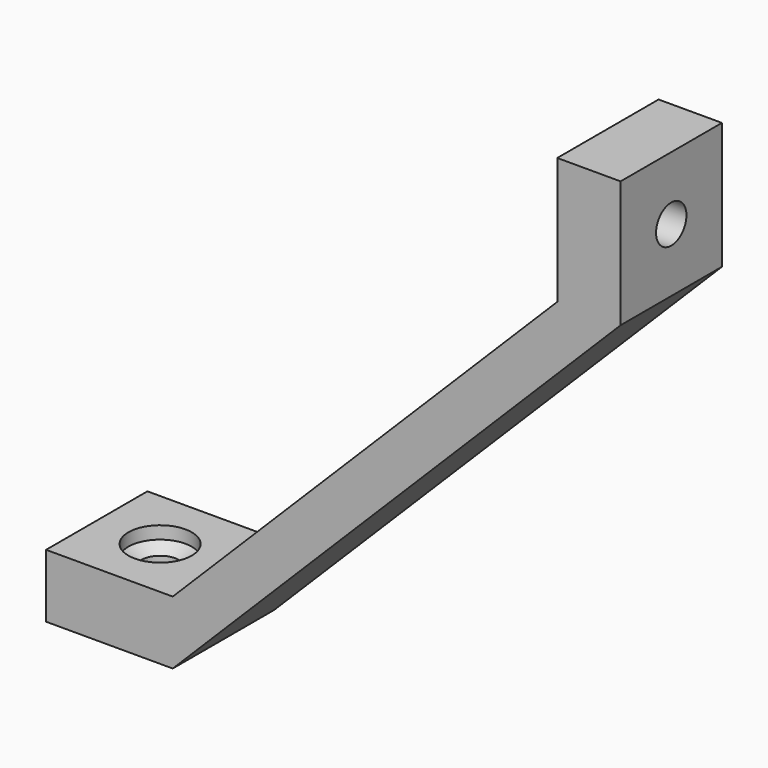
from build123d import *

# Parameters (mm, degrees)
F1_DEPTH = 10
F3_D     = 5
F3_DEPTH = 1
F3_TIP   = 1.5021515476
F5_D     = 5
F5_DEPTH = 1
F5_TIP   = 1.5021515476
F7_D     = 3
F9_D     = 3


with BuildPart() as f1:
    # F0 (on Front) → F1 (new body)
    with BuildSketch(Plane.XZ):
        Polygon((7.9454735894, 53.3583245364), (2.9454735894, 53.3583245364), (2.9454735894, 43.3583245364), (-27.4098654699, 13.0029854771), (-37.4098654699, 13.0029854771), (-37.4098654699, 8.0029854771), (-27.4098654699, 8.0029854771), (7.9454735894, 43.3583245364), align=None)
    extrude(amount=F1_DEPTH)

    # F3
    with Locations(Plane(origin=(2.9454735894, 0, 0), x_dir=(0, -1, 0), z_dir=(-1, 0, 0))):
        with Locations((5, 48.3583245364)):
            Hole(F3_D / 2, depth=F3_DEPTH)
            with Locations((0, 0, -(F3_DEPTH + F3_TIP / 2))):  # 118° drill point
                Cone(0, F3_D / 2, F3_TIP, mode=Mode.SUBTRACT)

    # F5
    with Locations(Plane.XY.offset(13.0029854771)):
        with Locations((-32.4098654699, -5)):
            Hole(F5_D / 2, depth=F5_DEPTH)
            with Locations((0, 0, -(F5_DEPTH + F5_TIP / 2))):  # 118° drill point
                Cone(0, F5_D / 2, F5_TIP, mode=Mode.SUBTRACT)

    # F7 (through all)
    with Locations(Plane.XY.offset(13.0029854771)):
        with Locations((-32.4098654699, -5)):
            Hole(F7_D / 2)

    # F9 (through all)
    with Locations(Plane(origin=(2.9454735894, 0, 0), x_dir=(0, -1, 0), z_dir=(-1, 0, 0))):
        with Locations((5, 48.3583245364)):
            Hole(F9_D / 2)


solid = f1.part
